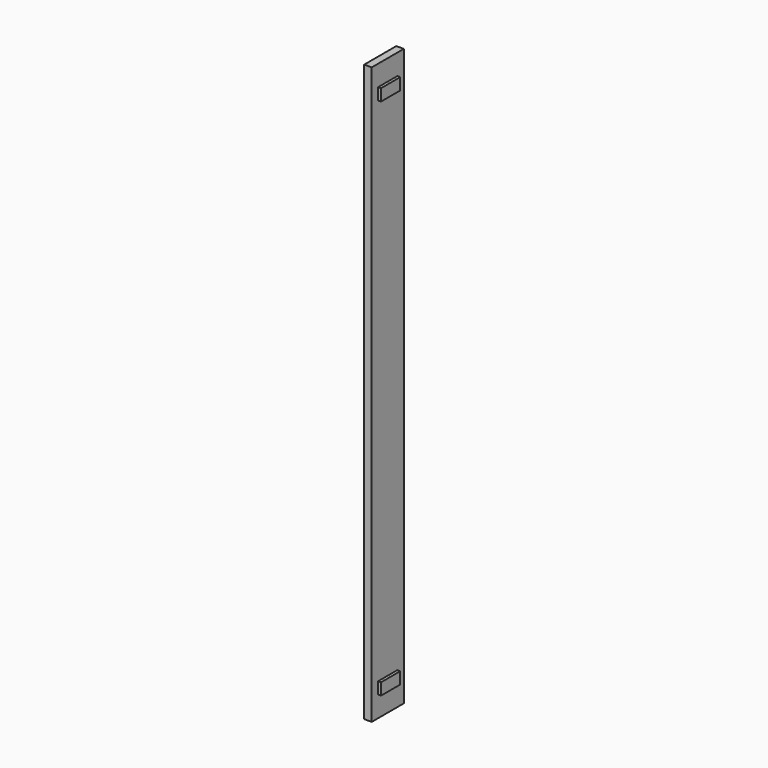
from build123d import *

# Parameters (mm, degrees)
SKETCH007_W             = 160
SKETCH007_H             = 2300
PAD007_DEPTH            = 30
PAD008_DEPTH            = 11.45
SKETCH009_W             = 68
SKETCH009_H             = 45
PAD009_DEPTH            = 13.945
BODY004_PLACEMENT_ANGLE = 180


with BuildPart() as r_support:
    # Sketch007 → Pad007 (new body)
    with BuildSketch(Plane.YZ):
        with Locations((-911.017, 830.848)):
            Rectangle(SKETCH007_W, SKETCH007_H)
    extrude(amount=PAD007_DEPTH)

    # Sketch008 (on Face5 of Pad007) → Pad008 (join)
    with BuildSketch(Plane(origin=(0, 0, 0), x_dir=(0, 1, 0), z_dir=(-1, 0, 0))):
        Polygon((-959.089896, 236.194146), (-863.09, 236.053045), (-863.159081, 189.053045), (-959.158977, 189.194146), align=None)
        Polygon((-959.09, -1851.352361), (-863.09, -1851.346955), (-863.087354, -1898.346955), (-959.087354, -1898.352361), align=None)
    extrude(amount=PAD008_DEPTH)

    # Sketch009 (on Face5 of Pad008) → Pad009 (join)
    with BuildSketch(Plane.YZ.offset(30)):
        with Locations((-881.01, -159.045)):
            Rectangle(SKETCH009_W, SKETCH009_H)
        with Locations((-881.01, 1785.955)):
            Rectangle(SKETCH009_W, SKETCH009_H)
    extrude(amount=PAD009_DEPTH)


with BuildPart() as r_support_1:
    # Body004 placement: moved
    add(r_support.part.moved(Location((4028, -1820.37693, 16.20869))).rotate(Axis((4028, -1820.37693, 16.20869), (0, 0, 1)), BODY004_PLACEMENT_ANGLE))


with BuildPart() as part_mirroring:
    # Part__Mirroring: instance of R Support
    add(r_support_1.part.mirror(Plane(origin=(0, 0, 0), x_dir=(1, 0, 0), z_dir=(0, 1, 0))))


with BuildPart() as part_mirroring_1:
    # Part__Mirroring placement: moved
    add(part_mirroring.part.moved(Location((-1300, -1818.504883, 0))))


solid = part_mirroring_1.part
